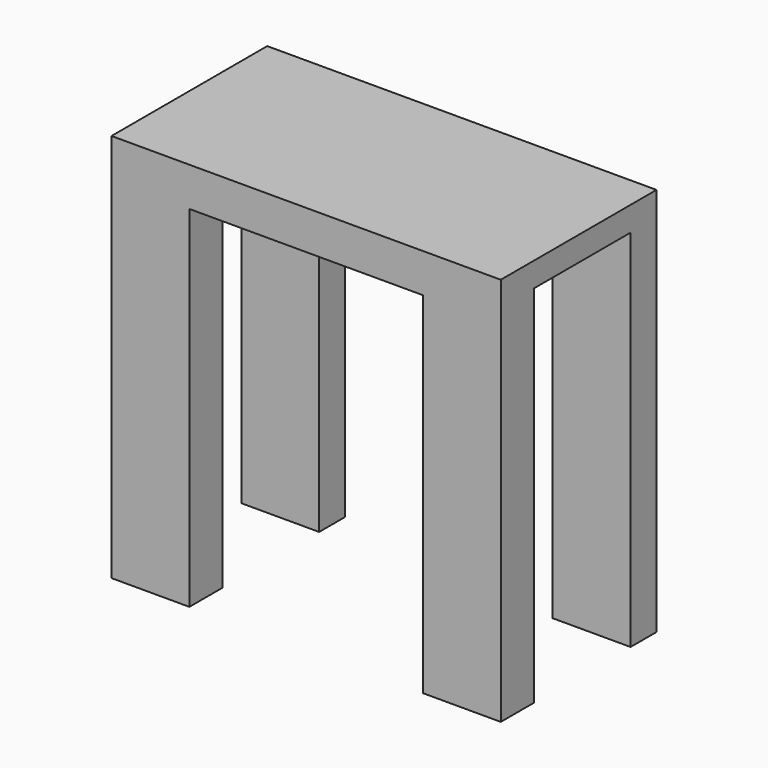
from build123d import *

# Parameters (mm, degrees)
F0_W     = 50.8
F0_H     = 50.8
F1_DEPTH = 25.4
F2_W     = 30.48
F2_H     = 45.72
F3_DEPTH = 25.401
F4_W     = 15.741314
F4_H     = 47.608288
F5_DEPTH = 50.801


with BuildPart() as f1:
    # F0 (on Front) → F1 (new body)
    with BuildSketch(Plane.XZ):
        Rectangle(F0_W, F0_H)
    extrude(amount=F1_DEPTH)

    # F2 (on face) → F3 (cut, through all)
    with BuildSketch(Plane.XZ.offset(25.4)):
        with Locations((0, -2.54)):
            Rectangle(F2_W, F2_H)
    extrude(amount=-F3_DEPTH, mode=Mode.SUBTRACT)

    # F4 (on face) → F5 (cut, through all)
    with BuildSketch(Plane.YZ.offset(25.4)):
        with Locations((-12.098421, -1.595856)):
            Rectangle(F4_W, F4_H)
    extrude(amount=-F5_DEPTH, mode=Mode.SUBTRACT)


solid = f1.part
